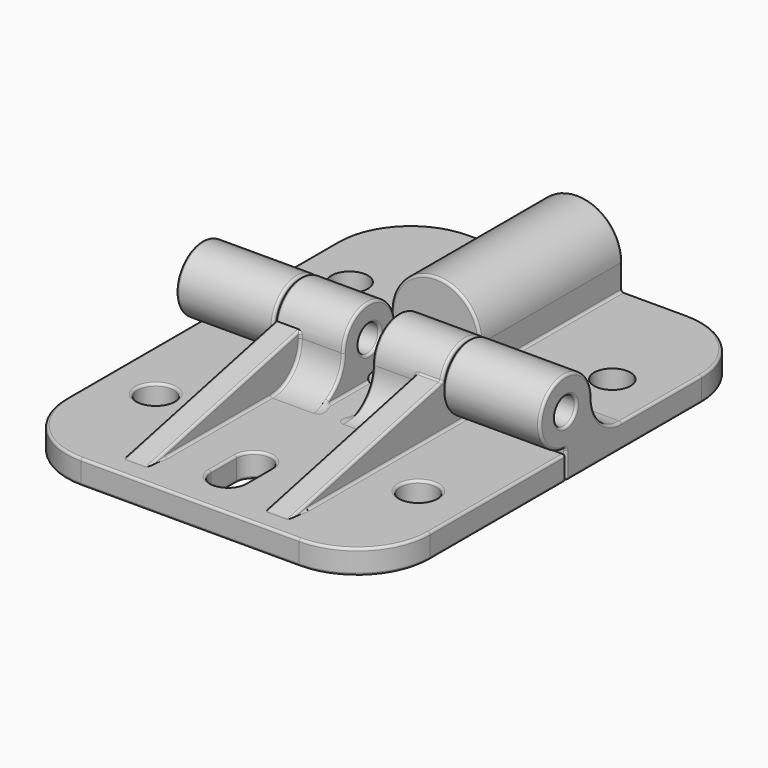
from build123d import *

# Parameters (mm, degrees)
PAD_DEPTH            = 3
PAD001_DEPTH         = 12
PAD002_DEPTH         = 22
SKETCH005_R          = 1.65
POCKET_DEPTH         = 22.501
POCKET_DEPTH_BACK    = 22.501
FILLET_R             = 0.3
BINDER005_R          = 2.25
POCKET003_DEPTH      = 0.001
POCKET003_DEPTH_BACK = 11.701
PAD003_DEPTH         = 3
PAD004_DEPTH         = 8.5
PAD005_DEPTH         = 3.1
BINDER002_R          = 1.65
POCKET001_DEPTH      = 22.501
POCKET001_DEPTH_BACK = 22.501
BINDER003_R          = 2.25
POCKET002_DEPTH      = 0.001
POCKET002_DEPTH_BACK = 11.601
FILLET001_R          = 0.3


with BuildPart() as body:
    # Sketch002 → Pad (new body)
    with BuildSketch(Plane.XY):
        with BuildLine():
            Line((-22.5, 21), (-22.5, 0))
            Line((-22.5, 0), (22.5, 0))
            Line((22.5, 0), (22.5, 21))
            ThreePointArc((22.5, 21), (19.863961, 27.363961), (13.5, 30))
            Line((13.5, 30), (-13.5, 30))
            ThreePointArc((-13.5, 30), (-19.863961, 27.363961), (-22.5, 21))
        make_face()
    extrude(amount=PAD_DEPTH)

    # Sketch004 → Pad001 (join)
    with BuildSketch(Plane.YZ.offset(22.5)):
        with BuildLine():
            ThreePointArc((4, 7.6), (5.347309, 4.347309), (8.6, 3))
            Line((8.6, 3), (8.6, 0))
            Line((8.6, 0), (0, 0))
            Line((0, 0), (0, 3.6))
            ThreePointArc((4, 7.6), (-2.828427, 10.428427), (0, 3.6))
        make_face()
    pad001 = extrude(amount=-PAD001_DEPTH)

    # Mirrored: Pad001 across YZ
    add(pad001.mirror(Plane.YZ))

    # Sketch003 → Pad002 (join)
    with BuildSketch(Plane.XZ.offset(-30)):
        with BuildLine():
            ThreePointArc((5.5, 6.2), (0, 11.7), (-5.5, 6.2))
            Line((-5.5, 6.2), (-5.5, 0))
            Line((-5.5, 0), (5.5, 0))
            Line((5.5, 0), (5.5, 6.2))
        make_face()
    extrude(amount=PAD002_DEPTH)

    # Sketch005 → Pocket (cut, two sides)
    with BuildSketch(Plane.YZ) as pocket_sk:
        with Locations((0, 7.6)):
            Circle(SKETCH005_R)
    extrude(amount=-POCKET_DEPTH, mode=Mode.SUBTRACT)
    extrude(pocket_sk.sketch, amount=POCKET_DEPTH_BACK, mode=Mode.SUBTRACT)

    # Fillet
    fillet_edges = [body.edges().sort_by_distance(p)[0] for p in [
        (19.863961, 27.363961, 3),
        (22.5, 14.8, 3),
        (16.5, 8.6, 3),
        (10.5, 4.3, 3),
        (0, 0, 3),
        (-10.5, 4.3, 3),
        (-16.5, 8.6, 3),
        (-22.5, 14.8, 3),
        (-19.863961, 27.363961, 3),
        (-9.5, 30, 3),
        (-5.5, 19, 3),
        (0, 8, 3),
        (5.5, 19, 3),
        (9.5, 30, 3),
        (-13.5, 30, 1.5),
        (-22.5, 21, 1.5),
        (-19.863961, 27.363961, 0),
        (22.5, 21, 1.5),
        (13.5, 30, 1.5),
        (19.863961, 27.363961, 0),
        (16.5, 4, 7.6),
        (22.5, 5.347309, 4.347309),
        (10.5, 5.347309, 4.347309),
        (10.5, -2.828427, 10.428427),
        (10.5, 0, 3.3),
        (10.5, -1.65, 7.6),
        (-10.5, 5.347309, 4.347309),
        (-10.5, -2.828427, 10.428427),
        (-10.5, 0, 3.3),
        (-10.5, -1.65, 7.6),
        (-16.5, 4, 7.6),
        (-22.5, 5.347309, 4.347309),
        (-5.5, 30, 4.6),
        (-5.5, 8, 4.6),
        (-5.5, 19, 6.2),
        (0, 8, 11.7),
        (5.5, 8, 4.6),
        (5.5, 30, 4.6),
        (5.5, 19, 6.2),
        (-16.5, 0, 3.6),
        (-22.5, -2.828427, 10.428427),
        (-16.5, 1.65, 7.6),
        (-22.5, -1.65, 7.6),
        (16.5, 0, 3.6),
        (22.5, -2.828427, 10.428427),
        (22.5, -1.65, 7.6),
        (16.5, 1.65, 7.6),
        (0, 30, 11.7),
        (-22.5, 10.5, 0),
        (-22.5, 0, 1.8),
        (22.5, 10.5, 0),
        (0, 0, 0),
        (0, 30, 0),
        (22.5, 0, 1.8),
    ]]
    fillet(fillet_edges, radius=FILLET_R)

    # Binder005 → Pocket003 (cut, two sides)
    with BuildSketch(Plane(origin=(0, 15, 0), x_dir=(0, 1, 0), z_dir=(0, 0, 1))) as pocket003_sk:
        with Locations((0, 16.25)):
            Circle(BINDER005_R)
        with Locations((0, -16.25)):
            Circle(BINDER005_R)
    extrude(amount=-POCKET003_DEPTH, mode=Mode.SUBTRACT)
    extrude(pocket003_sk.sketch, amount=POCKET003_DEPTH_BACK, mode=Mode.SUBTRACT)


with BuildPart() as body001:
    # Binder → Pad003 (new body)
    with BuildSketch(Plane(origin=(0, -14.656645, 0), x_dir=(0, 1, 0), z_dir=(0, 0, 1))):
        with BuildLine():
            Line((-6.343355, -22.5), (14.656645, -22.5))
            Line((14.656645, -22.5), (14.656645, 22.5))
            Line((14.656645, 22.5), (-6.343355, 22.5))
            ThreePointArc((-6.343355, 22.5), (-12.707317, 19.863961), (-15.343355, 13.5))
            Line((-15.343355, 13.5), (-15.343355, -13.5))
            ThreePointArc((-15.343355, -13.5), (-12.707317, -19.863961), (-6.343355, -22.5))
        make_face()
    extrude(amount=PAD003_DEPTH)

    # Binder001 → Pad004 (join)
    with BuildSketch(Plane(origin=(10.3, -1.726472, 5.348853), x_dir=(0, 1, 0), z_dir=(-1, 0, 0))):
        with BuildLine():
            ThreePointArc((-6.873528, 2.348853), (-3.620837, 1.001544), (-2.273528, -2.251147))
            ThreePointArc((-2.273528, -2.251147), (4.554899, -5.079574), (1.726472, 1.748853))
            Line((1.726472, 1.748853), (1.726472, 5.348853))
            Line((1.726472, 5.348853), (-6.873528, 5.348853))
            Line((-6.873528, 5.348853), (-6.873528, 2.348853))
        make_face()
    pad004 = extrude(amount=PAD004_DEPTH)

    # Sketch006 → Pad005 (join)
    with BuildSketch(Plane.YZ.offset(10.3)):
        Polygon((0, 9.338055), (-27.5, 3), (-27.5, 0), (0, 0), align=None)
    pad005 = extrude(amount=-PAD005_DEPTH)

    # Mirrored001: Pad004, Pad005 across YZ
    add(pad004.mirror(Plane.YZ))
    add(pad005.mirror(Plane.YZ))

    # Binder002 → Pocket001 (cut, two sides)
    with BuildSketch(Plane(origin=(0, 0, 7.6), x_dir=(0, -1, 0), z_dir=(1, 0, 0))) as pocket001_sk:
        Circle(BINDER002_R)
    extrude(amount=-POCKET001_DEPTH, mode=Mode.SUBTRACT)
    extrude(pocket001_sk.sketch, amount=POCKET001_DEPTH_BACK, mode=Mode.SUBTRACT)

    # Binder003 → Pocket002 (cut, two sides)
    with BuildSketch(Plane(origin=(0, -19.487998, 0), x_dir=(0, 1, 0), z_dir=(0, 0, 1))) as pocket002_sk:
        with Locations((4.487998, 16.25)):
            Circle(BINDER003_R)
        with Locations((4.487998, -16.25)):
            Circle(BINDER003_R)
        with BuildLine():
            ThreePointArc((-0.662998, -2.125), (1.462002, 0), (-0.662998, 2.125))
            Line((-0.662998, 2.125), (-4.612998, 2.125))
            ThreePointArc((-4.612998, 2.125), (-6.737998, 0), (-4.612998, -2.125))
            Line((-4.612998, -2.125), (-0.662998, -2.125))
        make_face()
    extrude(amount=-POCKET002_DEPTH, mode=Mode.SUBTRACT)
    extrude(pocket002_sk.sketch, amount=POCKET002_DEPTH_BACK, mode=Mode.SUBTRACT)

    # Fillet001
    fillet001_edges = [body001.edges().sort_by_distance(p)[0] for p in [
        (-8.75, -27.5, 3),
        (-7.2, -15.705773, 5.718271),
        (-10.3, -15.705773, 5.718271),
        (-10.3, -13.75, 3),
        (-7.2, -18.05, 3),
        (7.2, -18.05, 3),
        (8.75, -27.5, 3),
        (7.2, -5.347309, 4.347309),
        (7.2, -3.977825, 8.020603),
        (-7.2, -5.347309, 4.347309),
        (10.3, 3.110158, 10.115336),
        (-1.8, -4.3, 3),
        (-1.8, -5.347309, 4.347309),
        (1.8, -4.3, 3),
        (1.8, -5.347309, 4.347309),
        (1.8, 0, 3.3),
        (0, 0, 3),
        (-1.8, 0, 3.3),
        (22.5, -10.5, 0),
        (19.863961, -27.363961, 0),
        (0, 0, 0),
        (0, -30, 0),
        (-22.5, -10.5, 0),
        (-19.863961, -27.363961, 0),
        (18.5, -15, 0),
        (-14, -15, 0),
        (0, -18.025996, 0),
        (-2.125, -22.125996, 0),
        (0, -26.225996, 0),
        (2.125, -22.125996, 0),
        (-13.5, -30, 1.5),
        (13.5, -30, 1.5),
        (0, -30, 3),
        (-22.5, 0, 1.5),
        (-16.4, 0, 3),
        (-10.3, 0, 3.3),
        (-6.05, 0, 3.6),
        (6.05, 0, 3.6),
        (10.3, 0, 3.3),
        (16.4, 0, 3),
        (22.5, 0, 1.5),
        (10.3, -15.705773, 5.718271),
        (7.2, -15.705773, 5.718271),
        (8.75, -3.911547, 8.436542),
        (-22.5, -10.5, 3),
        (-19.863961, -27.363961, 3),
        (19.863961, -27.363961, 3),
        (22.5, -10.5, 3),
        (-4.5, -8.6, 3),
        (10.3, -13.75, 3),
        (4.5, -8.6, 3),
        (18.5, -15, 3),
        (-14, -15, 3),
        (0, -18.025996, 3),
        (-2.125, -22.125996, 3),
        (0, -26.225996, 3),
        (2.125, -22.125996, 3),
        (-10.3, 3.110158, 10.115336),
        (10.3, -1.65, 7.6),
        (1.8, -1.65, 7.6),
        (-1.8, -1.65, 7.6),
        (-10.3, -1.65, 7.6),
    ]]
    fillet(fillet001_edges, radius=FILLET001_R)


solid = Compound([body.part, body001.part])
